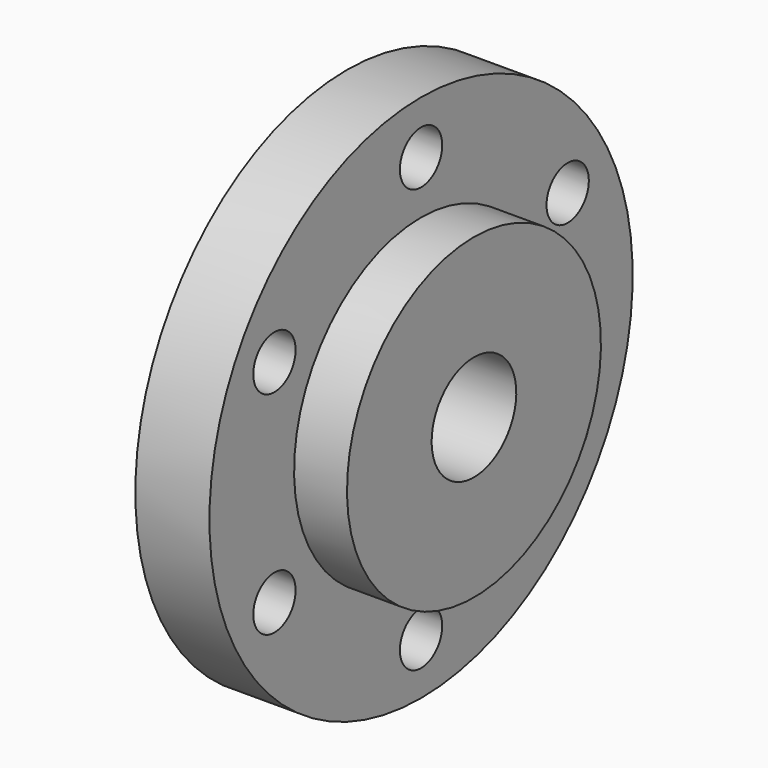
from build123d import *

# Parameters (mm, degrees)
F2_R     = 5
F3_DEPTH = 30.001


with BuildPart() as f1:
    # F0 (on Front) → F1 (revolve)
    with BuildSketch(Plane.XZ):
        Polygon((0, 20), (0, 10), (30, 10), (30, 30), (20, 30), (20, 50), (5.990666, 50), (5.990666, 20), align=None)
    revolve(axis=Axis((3.812242, 0, 0), (1, 0, 0)))

    # F2 (on Right) → F3 (cut, through all)
    with BuildSketch(Plane.YZ):
        with Locations((0, 40)):
            Circle(F2_R)
        with Locations((-34.641016, 20)):
            Circle(F2_R)
        with Locations((-34.641016, -20)):
            Circle(F2_R)
        with Locations((0, -40)):
            Circle(F2_R)
        with Locations((34.641016, -20)):
            Circle(F2_R)
        with Locations((34.641016, 20)):
            Circle(F2_R)
    extrude(amount=F3_DEPTH, mode=Mode.SUBTRACT)


solid = f1.part
